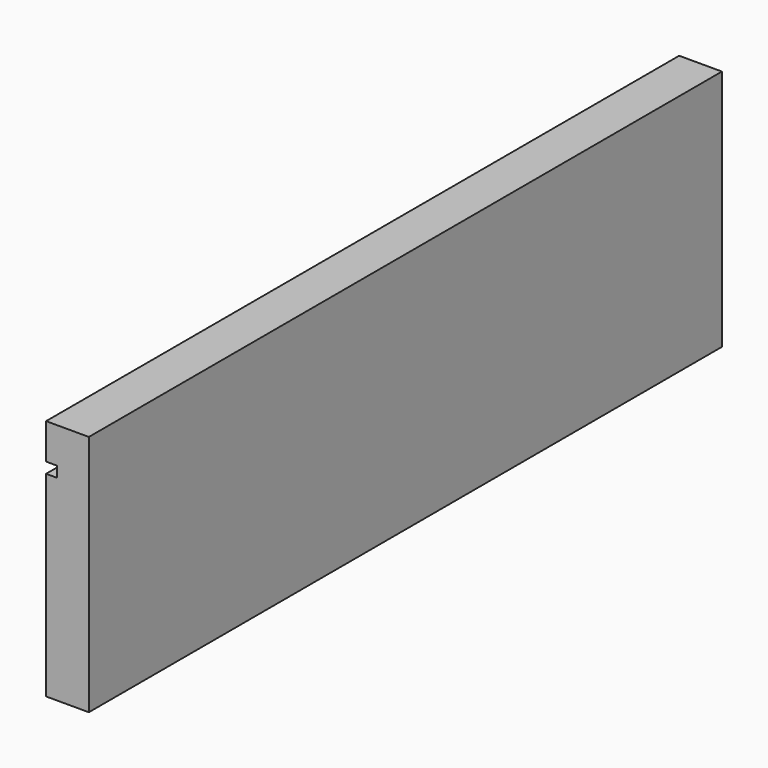
from build123d import *

# Parameters (mm, degrees)
F0_W     = 222
F0_H     = 68
F1_DEPTH = 12
F2_W     = 3
F2_H     = 3
F3_DEPTH = 300


with BuildPart() as f1:
    # F0 (on Right) → F1 (new body)
    with BuildSketch(Plane.YZ):
        Rectangle(F0_W, F0_H)
    extrude(amount=F1_DEPTH)

    # F2 (on face) → F3 (cut)
    with BuildSketch(Plane.XZ.offset(111)):
        with Locations((1.5, 22.5)):
            Rectangle(F2_W, F2_H)
    extrude(amount=-F3_DEPTH, mode=Mode.SUBTRACT)


solid = f1.part
